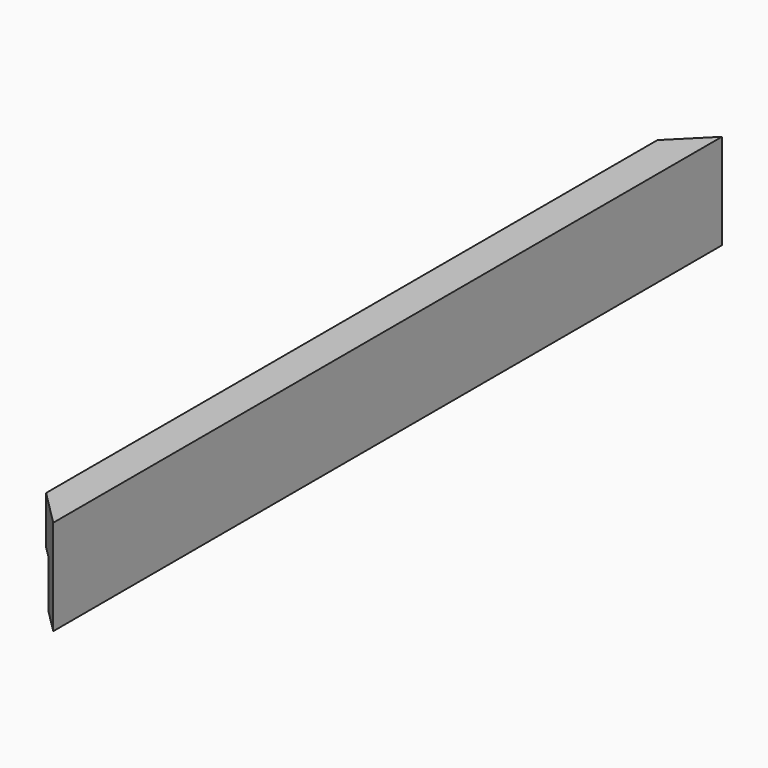
from build123d import *

# Parameters (mm, degrees)
F0_W     = 368.3
F0_H     = 50.8
F1_DEPTH = 19.05
F2_DEPTH = 50.8
F3_DEPTH = 25.4
F5_DEPTH = 444.501
F7_DEPTH = 50.801


with BuildPart() as f1:
    # F0 (on Right) → F1 (new body)
    with BuildSketch(Plane.YZ):
        Rectangle(F0_W, F0_H)
    extrude(amount=F1_DEPTH)

    # F2 (add): a face of the model
    f2_faces = [f1.faces().sort_by_distance(p)[0] for p in [
        (9.525, -184.15, 0),
    ]]
    extrude(f2_faces, amount=F2_DEPTH)

    # F3 (add): a face of the model
    f3_faces = [f1.faces().sort_by_distance(p)[0] for p in [
        (9.525, 184.15, 0),
    ]]
    extrude(f3_faces, amount=F3_DEPTH)

    # F4 (on face) → F5 (cut, through all)
    with BuildSketch(Plane(origin=(0, 209.55, 0), x_dir=(-1, 0, 0), z_dir=(0, 1, 0))):
        Polygon((-6.35, 0), (-6.35, -25.4), (-6.35, -26.9535556436), (8.1521905959, -26.9535556436), (8.1521905959, 0), align=None)
    extrude(amount=-F5_DEPTH, mode=Mode.SUBTRACT)

    # F6 (on face) → F7 (cut, through all)
    with BuildSketch(Plane.XY.offset(25.4)):
        Polygon((0, 190.5), (19.05, 209.55), (19.2840322852, 224.0246832371), (-11.843809858, 224.0246832371), (-11.843809858, 190.5), align=None)
        Polygon((19.05, -242.6750212908), (19.05, -234.95), (0, -215.9), (-3.5010655411, -215.9), (-3.5010655411, -242.6750212908), align=None)
    extrude(amount=-F7_DEPTH, mode=Mode.SUBTRACT)


solid = f1.part
